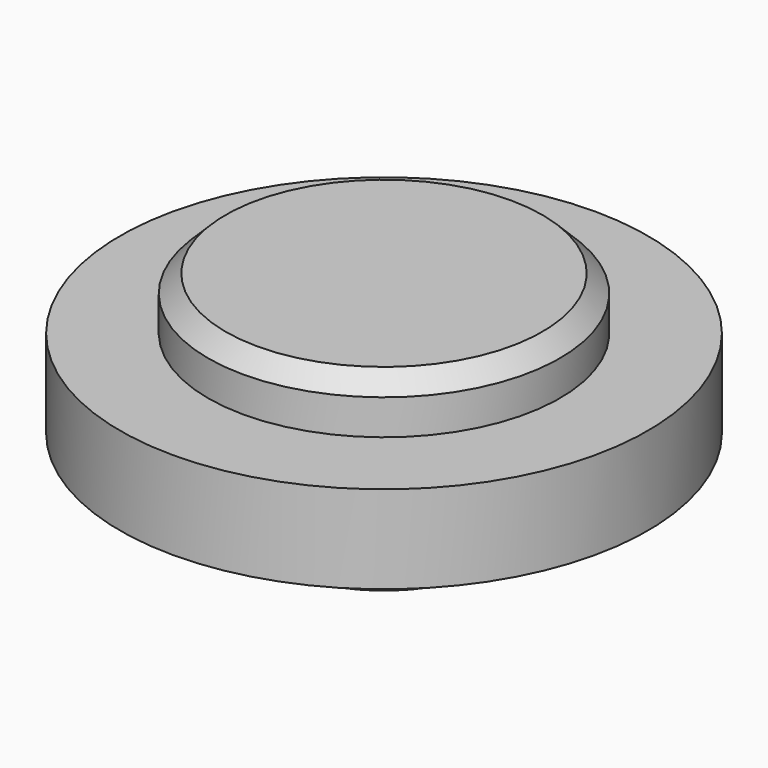
from build123d import *

# Parameters (mm, degrees)
CHAMFER_SIZE = 1


with BuildPart() as part:
    # Sketch_1 → Revolution (revolve)
    with BuildSketch(Plane.YZ):
        Polygon((0, 0), (-7.5, 0), (-7.5, 4.5), (-15, 4.5), (-15, 9.5), (-10, 9.5), (-10, 12.5), (0, 12.5), align=None)
    revolve(axis=Axis((0, 0, 0), (0, 0, 1)))

    # Chamfer
    chamfer_edges = [part.edges().sort_by_distance(p)[0] for p in [
        (0, 7.5, 0),
        (0, 10, 12.5),
    ]]
    chamfer(chamfer_edges, length=CHAMFER_SIZE)


solid = part.part
